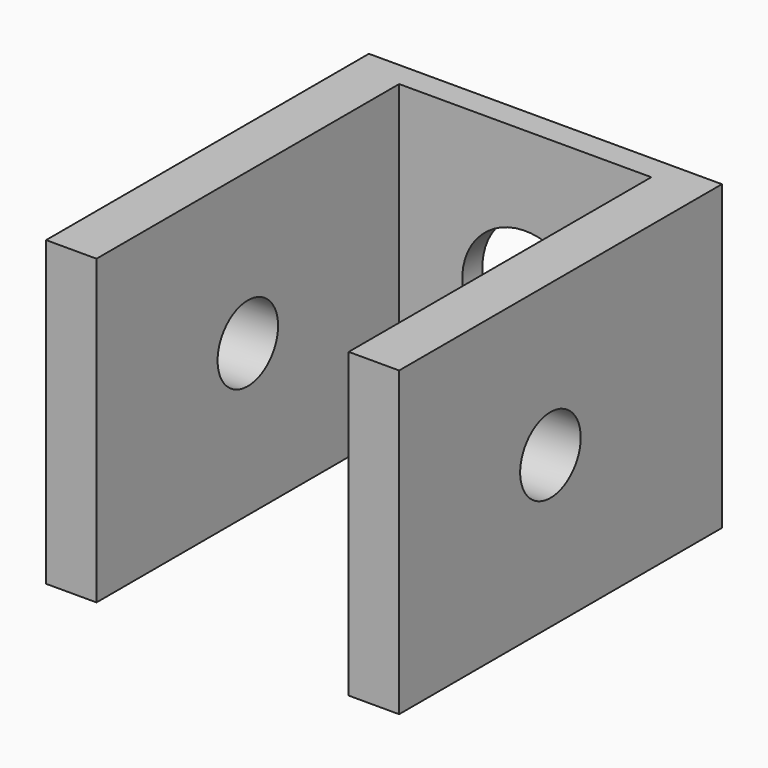
from build123d import *

# Parameters (mm, degrees)
F0_W     = 70
F0_H     = 60
F0_R     = 12.5
F1_DEPTH = 5
F2_W     = 10
F2_H     = 60
F3_DEPTH = 75
F4_R     = 7.5
F5_DEPTH = 70.001


with BuildPart() as f1:
    # F0 (on Front) → F1 (new body)
    with BuildSketch(Plane.XZ):
        Rectangle(F0_W, F0_H)
        Circle(F0_R, mode=Mode.SUBTRACT)
    extrude(amount=F1_DEPTH)

    # F2 (on face) → F3 (join)
    with BuildSketch(Plane.XZ.offset(5)):
        with Locations((-30, 0)):
            Rectangle(F2_W, F2_H)
        with Locations((30, 0)):
            Rectangle(F2_W, F2_H)
    extrude(amount=F3_DEPTH)

    # F4 (on face) → F5 (cut, through all)
    with BuildSketch(Plane.YZ.offset(35)):
        with Locations((-42.5, 0)):
            Circle(F4_R)
    extrude(amount=-F5_DEPTH, mode=Mode.SUBTRACT)


solid = f1.part
